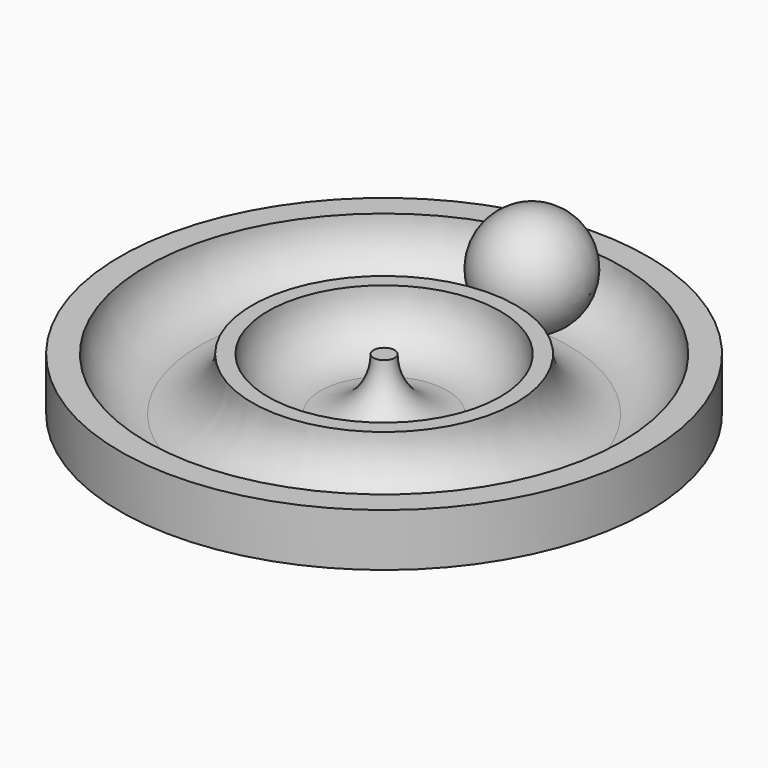
from build123d import *

# Parameters (mm, degrees)
TORUS001_R     = 1
TORUS_R        = 1
CYLINDER_R     = 5
CYLINDER_DEPTH = 1


with BuildPart() as toro001:
    # Torus001 → Torus001 (revolve)
    with BuildSketch(Plane(origin=(0, 0, 1), x_dir=(1, 0, 0), z_dir=(0, -1, 0))):
        with Locations((1.2, 0)):
            Circle(TORUS001_R)
    revolve(axis=Axis((0, 0, 1), (0, 0, 1)))


with BuildPart() as toro:
    # Torus → Torus (revolve)
    with BuildSketch(Plane(origin=(0, 0, 1), x_dir=(1, 0, 0), z_dir=(0, -1, 0))):
        with Locations((3.5, 0)):
            Circle(TORUS_R)
    revolve(axis=Axis((0, 0, 1), (0, 0, 1)))


with BuildPart() as cut001:
    # Cylinder → Cylinder (new body)
    with BuildSketch(Plane.XY):
        Circle(CYLINDER_R)
    extrude(amount=CYLINDER_DEPTH)

    # Cut: cut Toro
    add(toro.part, mode=Mode.SUBTRACT)

    # Cut001: cut Toro001
    add(toro001.part, mode=Mode.SUBTRACT)


with BuildPart() as esfera:
    # Sphere → Sphere (revolve)
    with BuildSketch(Plane(origin=(0, 3.5, 1), x_dir=(1, 0, 0), z_dir=(0, -1, 0))):
        with BuildLine():
            ThreePointArc((0, -1), (1, 0), (0, 1))
            Line((0, 1), (0, -1))
        make_face()
    revolve(axis=Axis((0, 3.5, 1), (0, 0, 1)))


solid = Compound([cut001.part, esfera.part])
